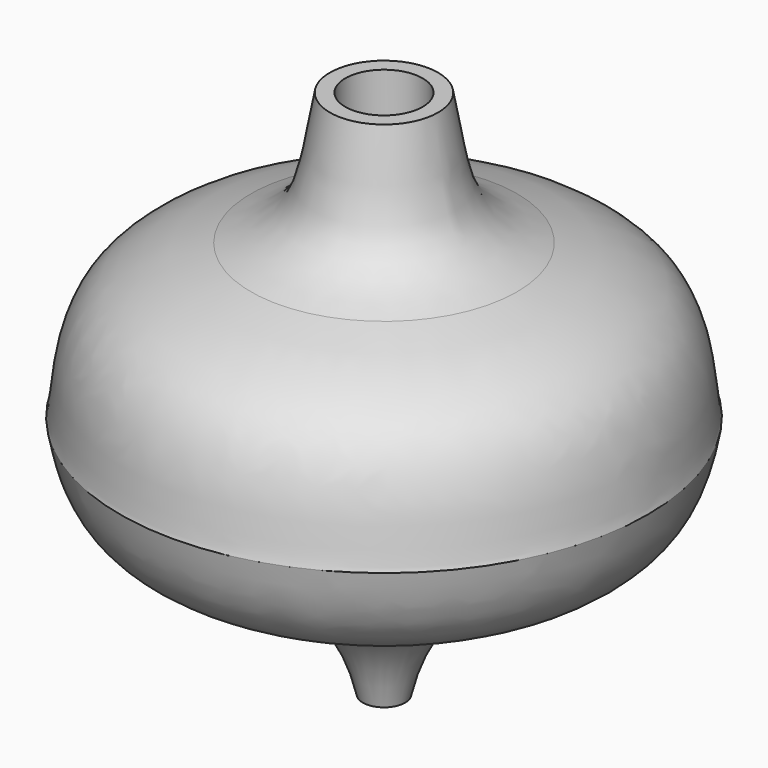
from build123d import *

# Parameters (mm, degrees)
F2_R     = 4.6355
F3_DEPTH = 9.6266
F4_R     = 1.6002
F5_DEPTH = 17.78


with BuildPart() as f1:
    # F0 (on Front) → F1 (revolve)
    with BuildSketch(Plane.XZ):
        with BuildLine():
            Line((0, 63.5), (0, 0))
            Line((0, 0), (2.54, 0))
            add(Edge.make_bspline(
                [(2.54, 0), (4.4955178308, 8.9577542199), (13.6341014895, 14.0566703587), (27.2440773123, 18.006695005), (30.6364371254, 23.6615275733), (31.6033065319, 29.2893778533)],
                knots=[0, 0, 0, 0, 0.3805291705, 0.6949358612, 1, 1, 1, 1], degree=3))
            add(Edge.make_bspline(
                [(15.9304495901, 47.6675145328), (18.1947364367, 47.0149396925), (31.7745328674, 43.8231587691), (31.0048823649, 30.6266996795), (31.6033065319, 29.2893778533)],
                knots=[0, 0, 0, 0, 0.5193371743, 1, 1, 1, 1], degree=3))
            add(Edge.make_bspline(
                [(6.477, 63.5), (7.4262102711, 58.5987261493), (7.9060794268, 54.2243340147), (10.2791442096, 49.685836314), (15.9304495901, 47.6675145328)],
                knots=[0, 0, 0, 0, 0.4923300194, 1, 1, 1, 1], degree=3))
            Line((6.477, 63.5), (0, 63.5))
        make_face()
    revolve(axis=Axis((0, 0, 31.75), (0, 0, 1)))

    # F2 (on face) → F3 (cut)
    with BuildSketch(Plane.XY.offset(63.5)):
        Circle(F2_R)
    extrude(amount=-F3_DEPTH, mode=Mode.SUBTRACT)

    # F4 (on face) → F5 (cut)
    with BuildSketch(Plane(origin=(0, 0, 0), x_dir=(1, 0, 0), z_dir=(0, 0, -1))):
        Circle(F4_R)
    extrude(amount=-F5_DEPTH, mode=Mode.SUBTRACT)


solid = f1.part
